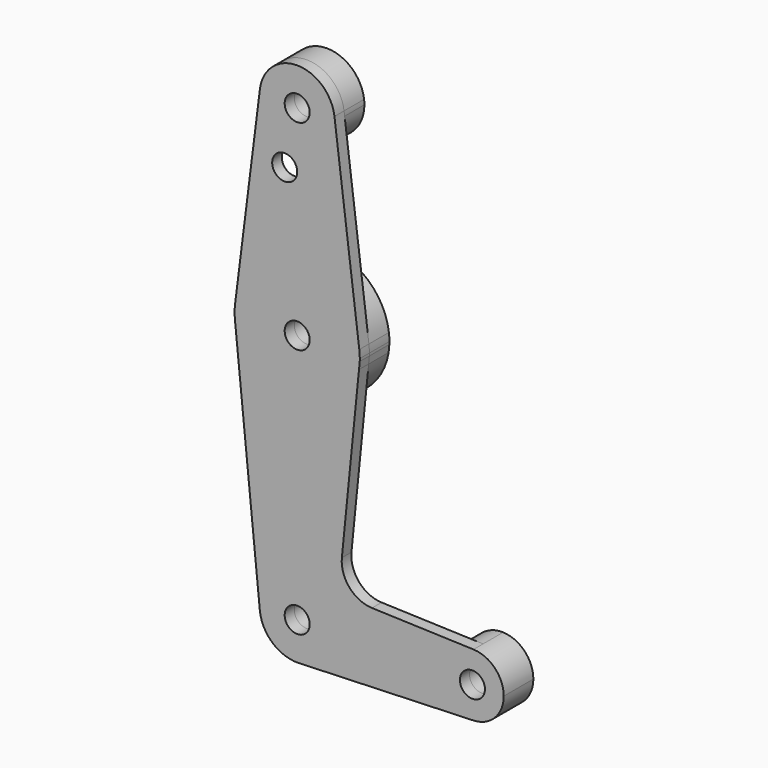
from build123d import *

# Parameters (mm, degrees)
F0_R     = 3.175
F1_DEPTH = 3.048
F2_DEPTH = 6.35


with BuildPart() as f1:
    # F0 (on Front) → F1 (new body)
    with BuildSketch(Plane.XZ):
        with BuildLine():
            Line((-9.450293, 115.490625), (-15.750488, 65.484375))
            ThreePointArc((-15.750488, 65.484375), (0, 79.375), (15.750488, 65.484375))
            Line((15.750488, 65.484375), (9.450293, 115.490625))
            ThreePointArc((9.450293, 115.490625), (9.506305, 114.896483), (9.525, 114.3))
            ThreePointArc((9.525, 114.3), (-0.596483, 104.793695), (-9.450293, 115.490625))
        make_face()
        with Locations((-3.175, 100.0252)):
            Circle(F0_R, mode=Mode.SUBTRACT)
        with BuildLine():
            ThreePointArc((-9.477255, -0.9525), (-0.476848, 9.513056), (9.525, 0))
            ThreePointArc((9.525, 0), (6.854408, -6.613827), (0.340179, -9.518923))
            Line((0.340179, -9.518923), (44.733482, -7.932436))
            ThreePointArc((44.733482, -7.932436), (36.512502, -0.006243), (44.721004, 7.932872))
            Line((44.721004, 7.932872), (18.967926, 8.812653))
            ThreePointArc((18.967926, 8.812653), (13.25428, 11.525202), (11.328669, 17.549793))
            Line((11.328669, 17.549793), (15.675725, 60.99256))
            ThreePointArc((15.675725, 60.99256), (-0.463847, 47.631778), (-15.795426, 61.9125))
            Line((-15.795426, 61.9125), (-9.477255, -0.9525))
        make_face()
        with BuildLine():
            ThreePointArc((9.450293, 115.490625), (0, 123.825), (-9.450293, 115.490625))
            ThreePointArc((-9.450293, 115.490625), (-0.596483, 104.793695), (9.525, 114.3))
            ThreePointArc((9.525, 114.3), (9.506305, 114.896483), (9.450293, 115.490625))
        make_face()
        with Locations((0, 114.3)):
            Circle(F0_R, mode=Mode.SUBTRACT)
        with BuildLine():
            ThreePointArc((-15.750488, 65.484375), (-15.873744, 63.699705), (-15.795426, 61.9125))
            ThreePointArc((-15.795426, 61.9125), (-0.463847, 47.631778), (15.675725, 60.99256))
            Line((15.675725, 60.99256), (15.861756, 62.851674))
            ThreePointArc((15.861756, 62.851674), (15.871689, 63.175769), (15.875, 63.5))
            ThreePointArc((15.875, 63.5), (15.843841, 64.494139), (15.750488, 65.484375))
            ThreePointArc((15.750488, 65.484375), (0, 79.375), (-15.750488, 65.484375))
        make_face()
        with Locations((0, 63.5)):
            Circle(F0_R, mode=Mode.SUBTRACT)
        with BuildLine():
            ThreePointArc((0.340179, -9.518923), (6.854408, -6.613827), (9.525, 0))
            ThreePointArc((9.525, 0), (-0.476848, 9.513056), (-9.477255, -0.9525))
            ThreePointArc((-9.477255, -0.9525), (-6.262383, -7.17692), (0.340179, -9.518923))
        make_face()
        Circle(F0_R, mode=Mode.SUBTRACT)
        with BuildLine():
            ThreePointArc((44.721004, 7.932872), (36.512502, -0.006243), (44.733482, -7.932436))
            ThreePointArc((44.733482, -7.932436), (50.162007, -5.511523), (52.3875, 0))
            ThreePointArc((52.3875, 0), (50.15767, 5.516014), (44.721004, 7.932872))
        make_face()
        with Locations((44.45, 0)):
            Circle(F0_R, mode=Mode.SUBTRACT)
    extrude(amount=F1_DEPTH)

    # F0 (on Front) → F2 (join)
    with BuildSketch(Plane.XZ):
        with BuildLine():
            ThreePointArc((44.721004, 7.932872), (36.512502, -0.006243), (44.733482, -7.932436))
            ThreePointArc((44.733482, -7.932436), (50.162007, -5.511523), (52.3875, 0))
            ThreePointArc((52.3875, 0), (50.15767, 5.516014), (44.721004, 7.932872))
        make_face()
        with Locations((44.45, 0)):
            Circle(F0_R, mode=Mode.SUBTRACT)
        with BuildLine():
            ThreePointArc((0.340179, -9.518923), (6.854408, -6.613827), (9.525, 0))
            ThreePointArc((9.525, 0), (-0.476848, 9.513056), (-9.477255, -0.9525))
            ThreePointArc((-9.477255, -0.9525), (-6.262383, -7.17692), (0.340179, -9.518923))
        make_face()
        Circle(F0_R, mode=Mode.SUBTRACT)
        with BuildLine():
            ThreePointArc((-15.750488, 65.484375), (-15.873744, 63.699705), (-15.795426, 61.9125))
            ThreePointArc((-15.795426, 61.9125), (-0.463847, 47.631778), (15.675725, 60.99256))
            Line((15.675725, 60.99256), (15.861756, 62.851674))
            ThreePointArc((15.861756, 62.851674), (15.871689, 63.175769), (15.875, 63.5))
            ThreePointArc((15.875, 63.5), (15.843841, 64.494139), (15.750488, 65.484375))
            ThreePointArc((15.750488, 65.484375), (0, 79.375), (-15.750488, 65.484375))
        make_face()
        with Locations((0, 63.5)):
            Circle(F0_R, mode=Mode.SUBTRACT)
        with BuildLine():
            ThreePointArc((9.450293, 115.490625), (0, 123.825), (-9.450293, 115.490625))
            ThreePointArc((-9.450293, 115.490625), (-0.596483, 104.793695), (9.525, 114.3))
            ThreePointArc((9.525, 114.3), (9.506305, 114.896483), (9.450293, 115.490625))
        make_face()
        with Locations((0, 114.3)):
            Circle(F0_R, mode=Mode.SUBTRACT)
    extrude(amount=-F2_DEPTH)


solid = f1.part
